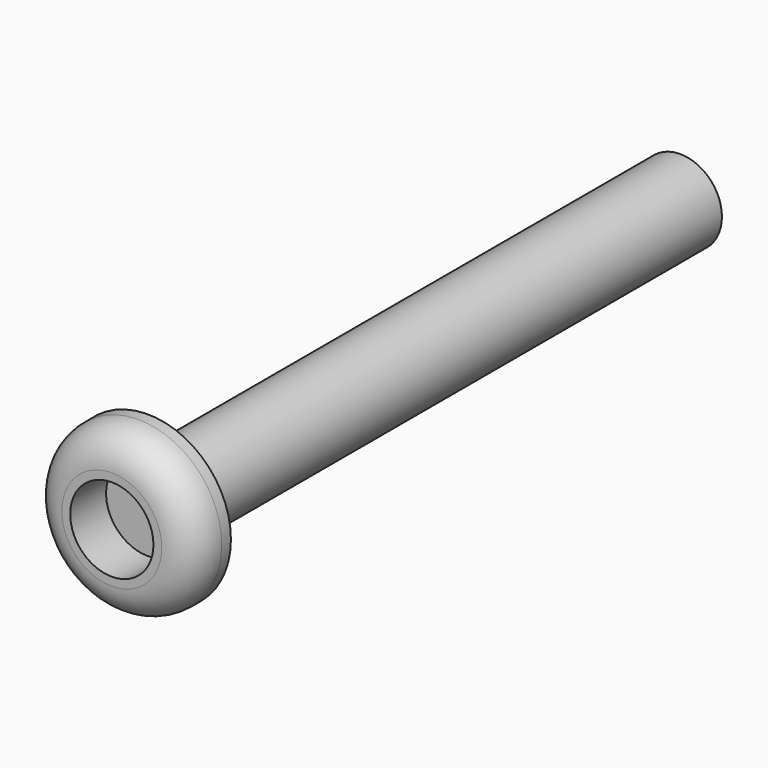
from build123d import *

# Parameters (mm, degrees)
F0_R     = 12.7
F0_R_2   = 6.35
F1_DEPTH = 6.844871
F2_R     = 5.08
F3_DEPTH = 101.6


with BuildPart() as f1:
    # F0 (on Front) → F1 (new body)
    with BuildSketch(Plane.XZ):
        Circle(F0_R)
        Circle(F0_R_2, mode=Mode.SUBTRACT)
    extrude(amount=F1_DEPTH)

    # F2
    f2_edges = [f1.edges().sort_by_distance(p)[0] for p in [
        (-12.7, -6.844871, 0),
    ]]
    fillet(f2_edges, radius=F2_R)


with BuildPart() as f3:
    # F0 (on Front) → F3 (new body)
    with BuildSketch(Plane.XZ):
        Circle(F0_R_2)
    extrude(amount=-F3_DEPTH)


solid = Compound([f1.part, f3.part])
